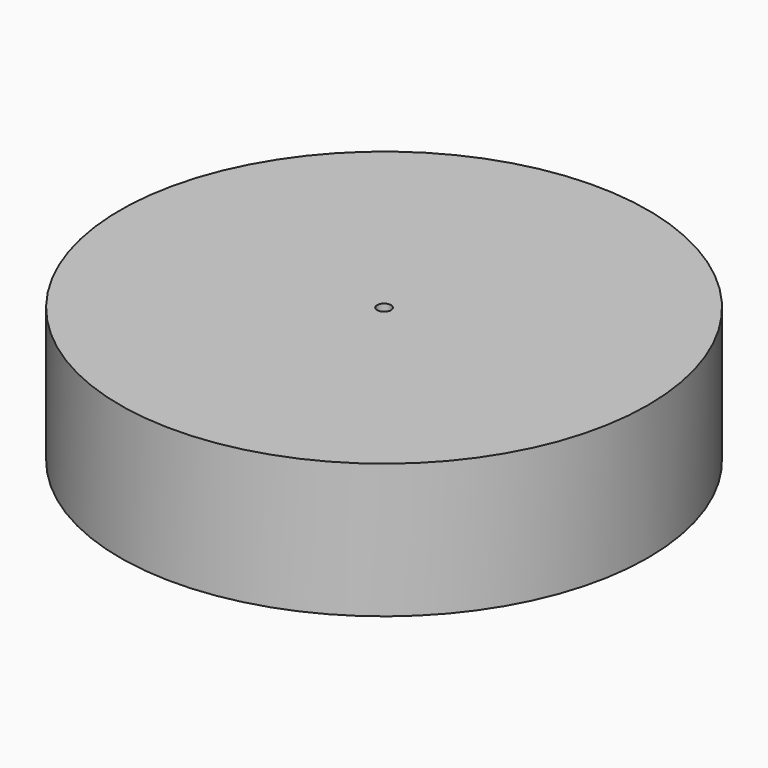
from build123d import *

# Parameters (mm, degrees)
F0_R     = 9
F0_R_2   = 2
F1_DEPTH = 12
F2_R     = 76.2
F3_DEPTH = 38.8
F5_R     = 2
F6_DEPTH = 12


with BuildPart() as f1:
    # F0 (on Top) → F1 (new body)
    with BuildSketch(Plane.XY):
        with Locations((0.035375, -0.025554)):
            Circle(F0_R)
        with Locations((0.035375, -0.025554)):
            Circle(F0_R_2, mode=Mode.SUBTRACT)
    extrude(amount=-F1_DEPTH)

    # F2 (on Top) → F3 (join)
    with BuildSketch(Plane.XY):
        Circle(F2_R)
    extrude(amount=-F3_DEPTH)

    # F5 (on face) → F6 (cut)
    with BuildSketch(Plane.XY):
        Circle(F5_R)
    extrude(amount=-F6_DEPTH, mode=Mode.SUBTRACT)


solid = f1.part
